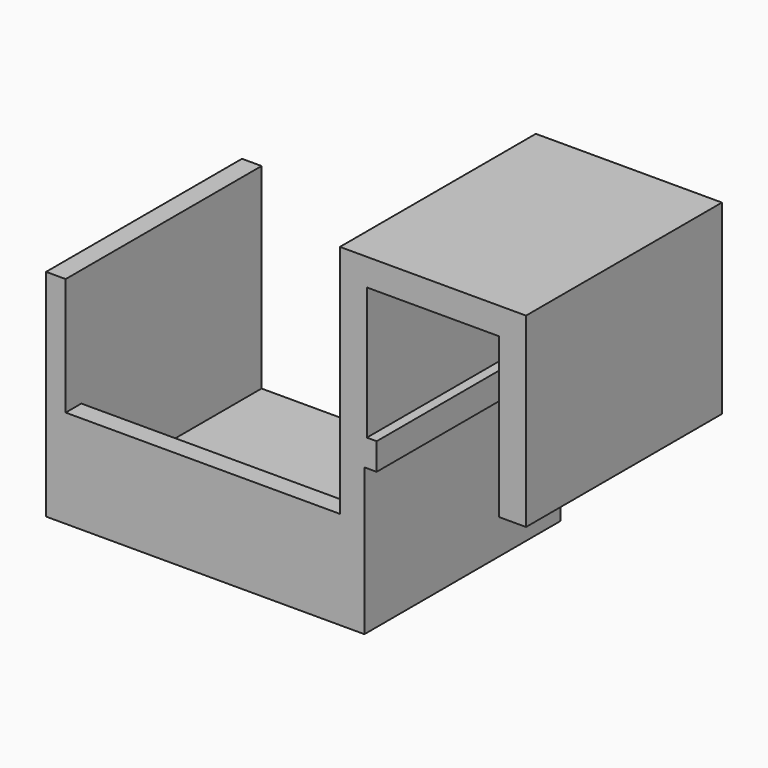
from build123d import *

# Parameters (mm, degrees)
F1_DEPTH = 12.5
F2_W     = 25
F2_H     = 34
F3_DEPTH = 2.5
F4_W     = 25
F4_H     = 2
F5_DEPTH = 30
F6_W     = 2
F6_H     = 25
F7_DEPTH = 20
F8_W     = 32.5
F8_H     = 10
F9_DEPTH = 2


with BuildPart() as f1:
    # F0 (on Front) → F1 (new body, symmetric)
    with BuildSketch(Plane.XZ):
        Polygon((9.5, -9.5), (9.5, 9.5), (-9.5, 9.5), (-9.5, -9.5), (-5.75, -9.5), (-5.75, -6.75), (-6.75, -6.75), (-6.75, 6.75), (6.75, 6.75), (6.75, -6.75), (6.75, -9.5), align=None)
    extrude(amount=F1_DEPTH, both=True)

    # F2 (on face) → F3 (join)
    with BuildSketch(Plane(origin=(-9.5, 0, 0), x_dir=(0, -1, 0), z_dir=(-1, 0, 0))):
        with Locations((0, -7.5)):
            Rectangle(F2_W, F2_H)
    extrude(amount=-F3_DEPTH)

    # F4 (on face) → F5 (join)
    with BuildSketch(Plane(origin=(-9.5, 0, 0), x_dir=(0, -1, 0), z_dir=(-1, 0, 0))):
        with Locations((0, -23.5)):
            Rectangle(F4_W, F4_H)
    extrude(amount=F5_DEPTH)

    # F6 (on face) → F7 (join)
    with BuildSketch(Plane.XY.offset(-22.5)):
        with Locations((-38.5, 0)):
            Rectangle(F6_W, F6_H)
    extrude(amount=F7_DEPTH)

    # F8 (on face) → F9 (join)
    with BuildSketch(Plane.XZ.offset(12.5)):
        with Locations((-23.25, -19.5)):
            Rectangle(F8_W, F8_H)
    extrude(amount=-F9_DEPTH)


solid = f1.part
